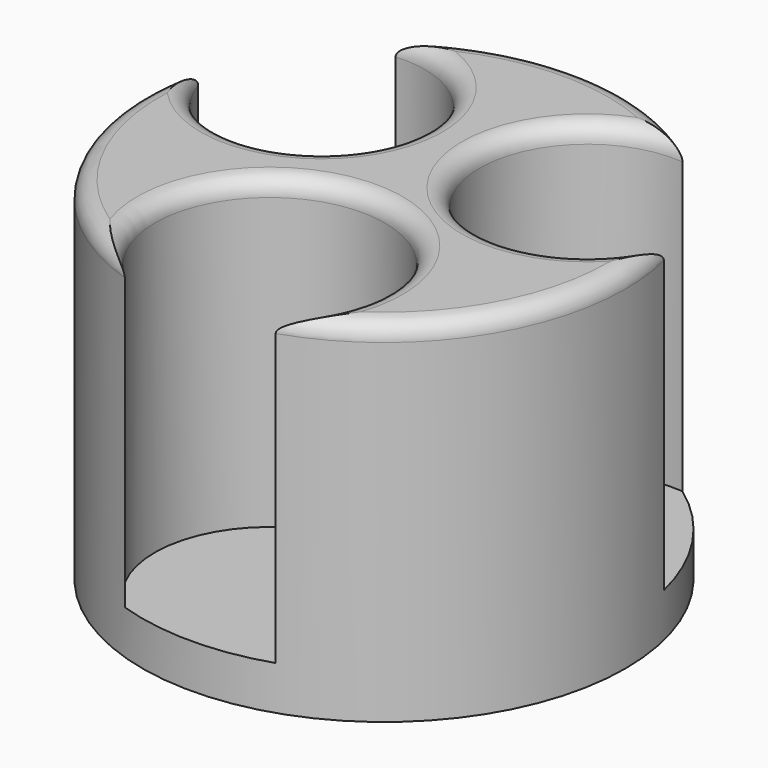
from build123d import *

# Parameters (mm, degrees)
F0_R     = 27.5
F1_DEPTH = 40
F3_R     = 11.75
F3_R_2   = 12.25
F3_R_3   = 13.1
F4_DEPTH = 35
F5_R     = 2


with BuildPart() as f1:
    # F0 (on Top) → F1 (new body)
    with BuildSketch(Plane.XY):
        Circle(F0_R)
    extrude(amount=F1_DEPTH)

    # F3 (on face) → F4 (cut, through all)
    with BuildSketch(Plane.XY.offset(40)):
        with Locations((-15.416977, 10.391477)):
            Circle(F3_R)
        with Locations((15.079009, 10.054506)):
            Circle(F3_R_2)
        with Locations((0, -16.229328)):
            Circle(F3_R_3)
    extrude(amount=-F4_DEPTH, mode=Mode.SUBTRACT)

    # F5
    f5_edges = [f1.edges().sort_by_distance(p)[0] for p in [
        (22.274014, -16.128183, 40),
        (27.313425, 3.197938, 40),
        (4.886965, 3.258571, 40),
        (-0.130285, 27.499691, 40),
        (-5.673617, 3.824178, 40),
        (-24.127977, -13.194345, 40),
        (0, -3.129328, 40),
    ]]
    fillet(f5_edges, radius=F5_R)


solid = f1.part
